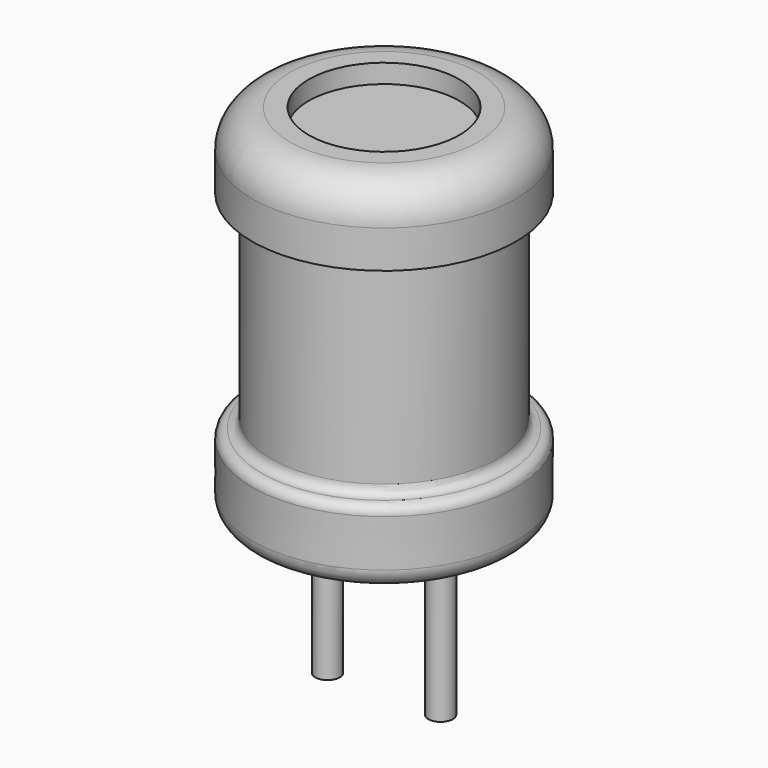
from build123d import *

# Parameters (mm, degrees)
F2_R     = 0.325
F3_DEPTH = 4.2


with BuildPart() as f1:
    # F0 (on Front) → F1 (revolve)
    with BuildSketch(Plane.XZ):
        with BuildLine():
            Line((0, 9), (-2, 9))
            Line((-2, 9), (-2, 9.5))
            Line((-2, 9.5), (-2.5, 9.5))
            ThreePointArc((-2.5, 9.5), (-3.207107, 9.207107), (-3.5, 8.5))
            Line((-3.5, 8.5), (-3.5, 7.5))
            Line((-3.5, 7.5), (-3, 7.407196))
            Line((-3, 7.407196), (-3, 2.259095))
            ThreePointArc((-3, 2.259095), (-3.073223, 2.082318), (-3.25, 2.009095))
            Line((-3.25, 2.009095), (-3.250103, 2.009095))
            ThreePointArc((-3.250103, 2.009095), (-3.42702, 1.935732), (-3.500103, 1.7587))
            Line((-3.500103, 1.7587), (-3.498128, 0.5087))
            ThreePointArc((-3.498128, 0.5087), (-3.35187, 0.156125), (-2.999452, 0.009492))
            Line((-2.999452, 0.009492), (0, 0))
            Line((0, 0), (0, 9))
        make_face()
    revolve(axis=Axis((0, 0, 4.5), (0, 0, -1)))


with BuildPart() as f3:
    # F2 (on Top) → F3 (new body)
    with BuildSketch(Plane.XY):
        with BuildLine():
            ThreePointArc((1.175, 0), (1.5, -0.325), (1.825, 0))
            ThreePointArc((1.825, 0), (1.5, 0.325), (1.175, 0))
        make_face()
        with Locations((-1.5, 0)):
            Circle(F2_R)
    extrude(amount=-F3_DEPTH)


solid = Compound([f1.part, f3.part])
